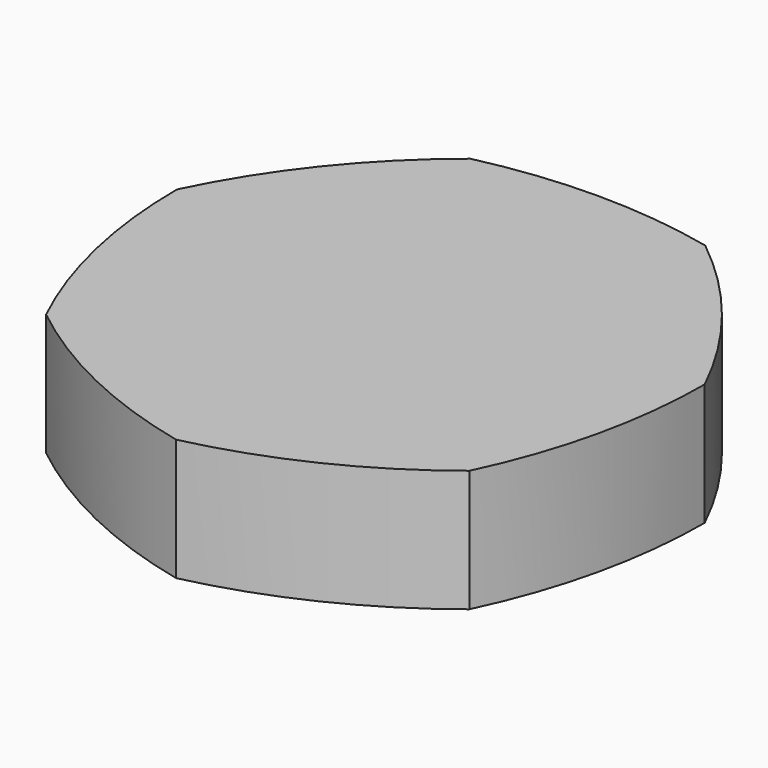
from build123d import *

# Parameters (mm, degrees)
F1_DEPTH = 12.7


with BuildPart() as f1:
    # F0 (on Top) → F1 (new body)
    with BuildSketch(Plane.XY):
        with BuildLine():
            ThreePointArc((27.485044, 6.273282), (20.936051, 16.695944), (12.231995, 25.4))
            ThreePointArc((12.231995, 25.4), (0, 26.778215), (-12.231995, 25.4))
            ThreePointArc((-12.231995, 25.4), (-20.936051, 16.695944), (-27.485044, 6.273282))
            ThreePointArc((-27.485044, 6.273282), (-26.106829, -5.958713), (-22.041294, -17.577345))
            ThreePointArc((-22.041294, -17.577345), (-11.618632, -24.126338), (0, -28.191873))
            ThreePointArc((0, -28.191873), (11.618632, -24.126338), (22.041294, -17.577345))
            ThreePointArc((22.041294, -17.577345), (26.106829, -5.958713), (27.485044, 6.273282))
        make_face()
    extrude(amount=F1_DEPTH)


solid = f1.part
